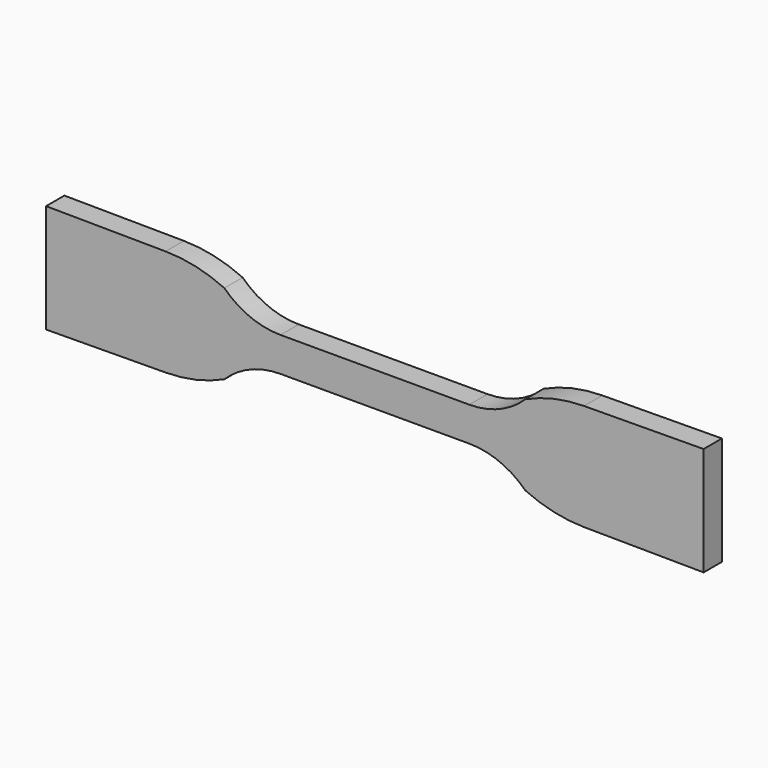
from build123d import *

# Parameters (mm, degrees)
F1_DEPTH = 2


with BuildPart() as f1:
    # F0 (on Front) → F1 (new body, symmetric)
    with BuildSketch(Plane.XZ):
        with BuildLine():
            Line((16.5, 3), (0, 3))
            Line((0, 3), (-16.5, 3))
            ThreePointArc((-16.5, 3), (-21.81016, 4.046151), (-26.326716, 7.028257))
            ThreePointArc((-26.326716, 7.028257), (-31.335961, 8.722849), (-36.58958, 9.325895))
            Line((-36.58958, 9.325895), (-57.5, 9.5))
            Line((-57.5, 9.5), (-57.5, -9.5))
            Line((-57.5, -9.5), (-36.58958, -9.325895))
            ThreePointArc((-36.58958, -9.325895), (-31.335961, -8.722849), (-26.326716, -7.028257))
            ThreePointArc((-26.326716, -7.028257), (-21.81016, -4.046151), (-16.5, -3))
            Line((-16.5, -3), (0, -3))
            Line((0, -3), (16.5, -3))
            ThreePointArc((16.5, -3), (21.81016, -4.046151), (26.326716, -7.028257))
            ThreePointArc((26.326716, -7.028257), (31.335961, -8.722849), (36.58958, -9.325895))
            Line((36.58958, -9.325895), (57.5, -9.5))
            Line((57.5, -9.5), (57.5, 9.5))
            Line((57.5, 9.5), (36.58958, 9.325895))
            ThreePointArc((36.58958, 9.325895), (31.335961, 8.722849), (26.326716, 7.028257))
            ThreePointArc((26.326716, 7.028257), (21.81016, 4.046151), (16.5, 3))
        make_face()
    extrude(amount=F1_DEPTH, both=True)


solid = f1.part
